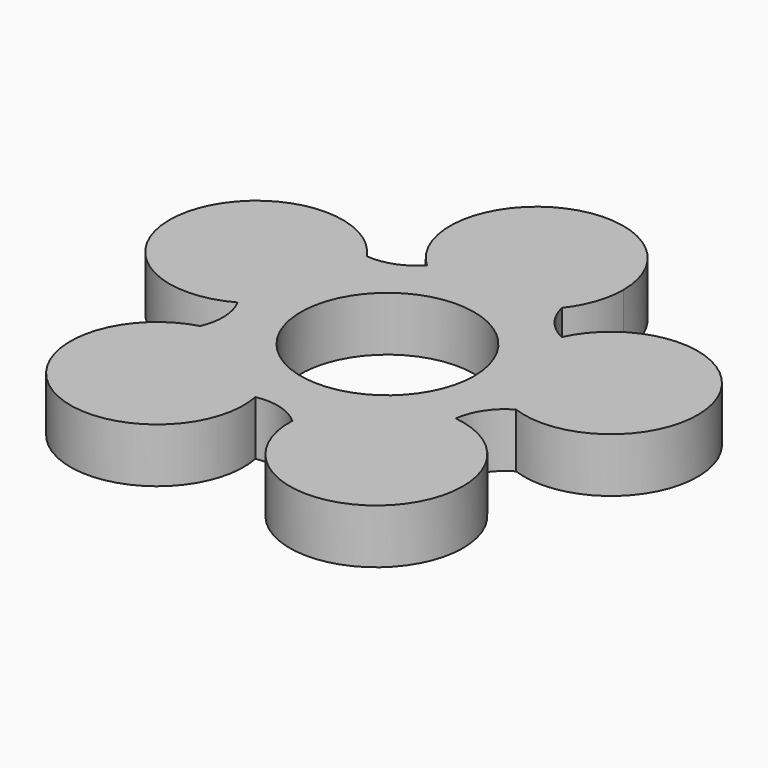
from build123d import *

# Parameters (mm, degrees)
F0_R     = 11.15
F1_DEPTH = 7


with BuildPart() as f1:
    # F0 (on Top) → F1 (new body)
    with BuildSketch(Plane.XY):
        with BuildLine():
            ThreePointArc((12.720798, 12.13026), (10.156571, 14.156134), (8.770986, 17.115793))
            ThreePointArc((8.770986, 17.115793), (10.538477, 20.358159), (11.15, 24))
            ThreePointArc((11.15, 24), (-4.445213, 34.225585), (-7.60562, 15.846654))
            ThreePointArc((-7.60562, 15.846654), (-10.324731, 14.03396), (-13.567703, 13.630774))
            ThreePointArc((-13.567703, 13.630774), (-33.664157, 10.032303), (-17.421329, -2.336489))
            ThreePointArc((-17.421329, -2.336489), (-16.537606, -5.48267), (-17.156287, -8.691511))
            ThreePointArc((-17.156287, -8.691511), (-19.944084, -28.916363), (-3.161354, -17.290683))
            ThreePointArc((-3.161354, -17.290683), (0.103928, -17.422436), (2.964534, -19.002424))
            ThreePointArc((2.964534, -19.002424), (21.338035, -27.903599), (15.467505, -8.349741))
            ThreePointArc((15.467505, -8.349741), (16.601837, -5.284987), (18.98847, -3.052632))
            ThreePointArc((18.98847, -3.052632), (33.131715, 11.670991), (12.720798, 12.13026))
        make_face()
        Circle(F0_R, mode=Mode.SUBTRACT)
    extrude(amount=F1_DEPTH)


solid = f1.part
